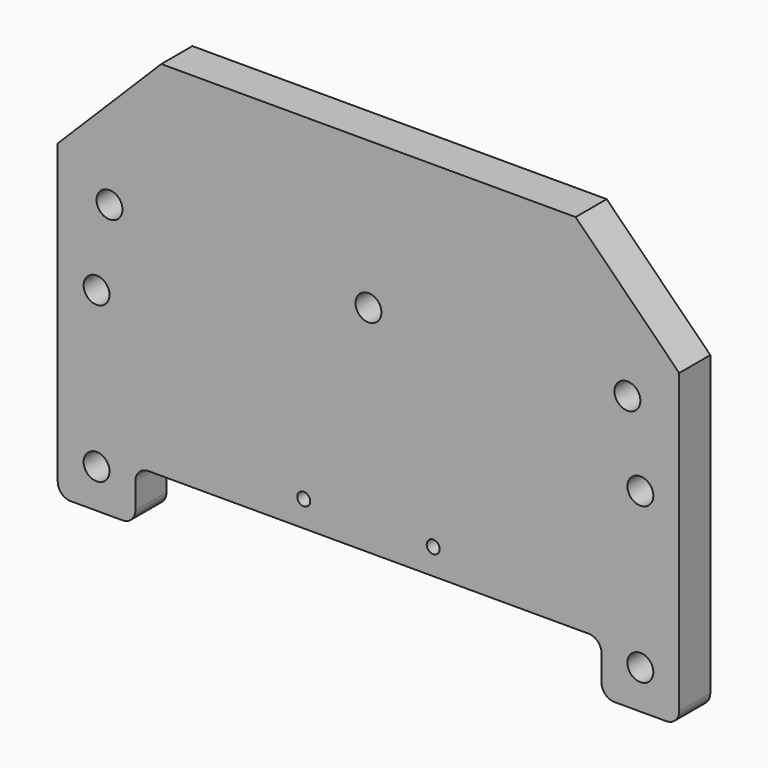
from build123d import *

# Parameters (mm, degrees)
F1_DEPTH       = 19.05
F2_R           = 6.35
F3_SIZE2       = 50.8
F3_SIZE        = 50.8
F4_R           = 6.35
F4_R_2         = 3.175
F5_DEPTH       = 25.4
F6_D           = 12.7
F6_DEPTH       = 12.7
F6_TIP         = 3.8154649308
F7_D           = 9.525
F7_DEPTH       = 25.4
F7_CBORE_D     = 12.7
F7_CBORE_DEPTH = 12.7
F7_TIP         = 2.8615986981


with BuildPart() as f1:
    # F0 (on Front) → F1 (new body)
    with BuildSketch(Plane.XZ):
        Polygon((-61.5315027535, 184.1499997646), (-61.5315027535, -19.0500002354), (-23.4315027535, -19.0500002354), (-23.4315027535, 6.3499997646), (205.1684972465, 6.3499997646), (205.1684972465, -19.0500002354), (243.2684972465, -19.0500002354), (243.2684972465, 184.1499997646), align=None)
    extrude(amount=F1_DEPTH)

    # F2
    f2_edges = [f1.edges().sort_by_distance(p)[0] for p in [
        (-23.431503, -9.525, 6.35),
        (-61.531503, -9.525, -19.05),
        (243.268497, -9.525, -19.05),
        (205.168497, -9.525, -19.05),
        (205.168497, -9.525, 6.35),
        (-23.431503, -9.525, -19.05),
    ]]
    fillet(f2_edges, radius=F2_R)

    # F3
    f3_edges = [f1.edges().sort_by_distance(p)[0] for p in [
        (243.268497, -9.525, 184.15),
        (-61.531503, -9.525, 184.15),
    ]]
    chamfer(f3_edges, length=F3_SIZE, length2=F3_SIZE2)

    # F4 (on face) → F5 (cut)
    with BuildSketch(Plane.XZ.offset(19.05)):
        with Locations((90.8684972465, 111.9631997646)):
            Circle(F4_R)
        with Locations((59.1184972465, 19.0499997646)):
            Circle(F4_R_2)
        with Locations((122.6184972465, 19.0499997646)):
            Circle(F4_R_2)
    extrude(amount=-F5_DEPTH, mode=Mode.SUBTRACT)

    # F6
    with Locations(Plane.XZ.offset(19.05)):
        with Locations((-36.1315027535, 115.1381997646), (217.8684972465, 115.1381997646)):
            Hole(F6_D / 2, depth=F6_DEPTH)
            with Locations((0, 0, -(F6_DEPTH + F6_TIP / 2))):  # 118° drill point
                Cone(0, F6_D / 2, F6_TIP, mode=Mode.SUBTRACT)

    # F7
    with Locations(Plane.XZ.offset(19.05)):
        with Locations((-42.4815027535, 76.1999997646), (-42.4815027535, -2.354e-07), (224.2184972465, -2.354e-07), (224.2184972465, 76.1999997646)):
            CounterBoreHole(F7_D / 2, F7_CBORE_D / 2, F7_CBORE_DEPTH, depth=F7_DEPTH)
            with Locations((0, 0, -(F7_DEPTH + F7_TIP / 2))):  # 118° drill point
                Cone(0, F7_D / 2, F7_TIP, mode=Mode.SUBTRACT)


solid = f1.part
